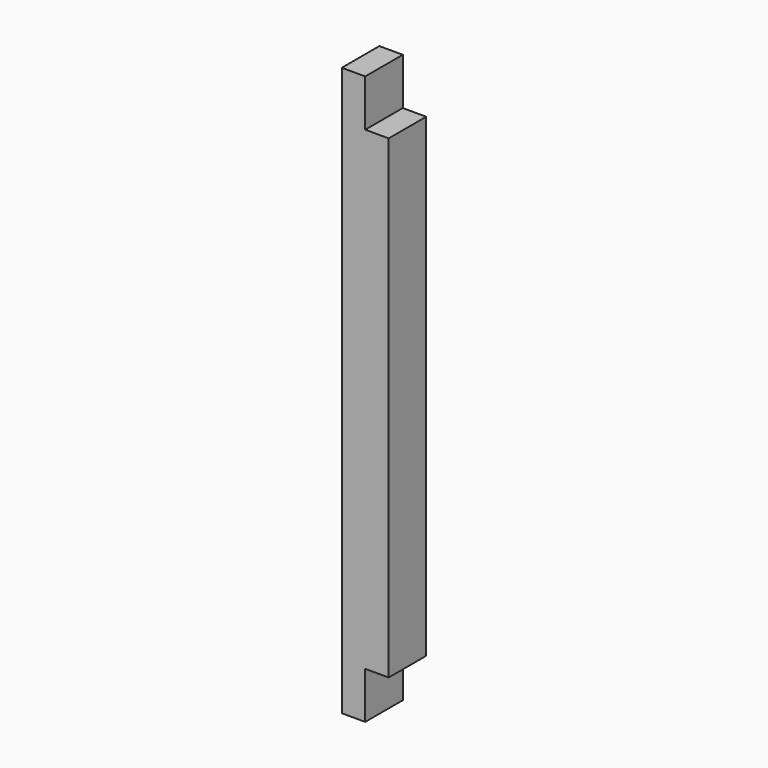
from build123d import *

# Parameters (mm, degrees)
F0_W     = 90
F0_H     = 90
F1_DEPTH = 1090
F2_W     = 90
F2_H     = 90
F2_H_2   = 89.622639
F3_DEPTH = 45


with BuildPart() as f1:
    # F0 (on Top) → F1 (new body)
    with BuildSketch(Plane.XY):
        Rectangle(F0_W, F0_H)
    extrude(amount=F1_DEPTH)

    # F2 (on face) → F3 (cut)
    with BuildSketch(Plane.YZ.offset(45)):
        with Locations((0, 1045)):
            Rectangle(F2_W, F2_H)
        with Locations((0, 44.811319)):
            Rectangle(F2_W, F2_H_2)
    extrude(amount=-F3_DEPTH, mode=Mode.SUBTRACT)


solid = f1.part
